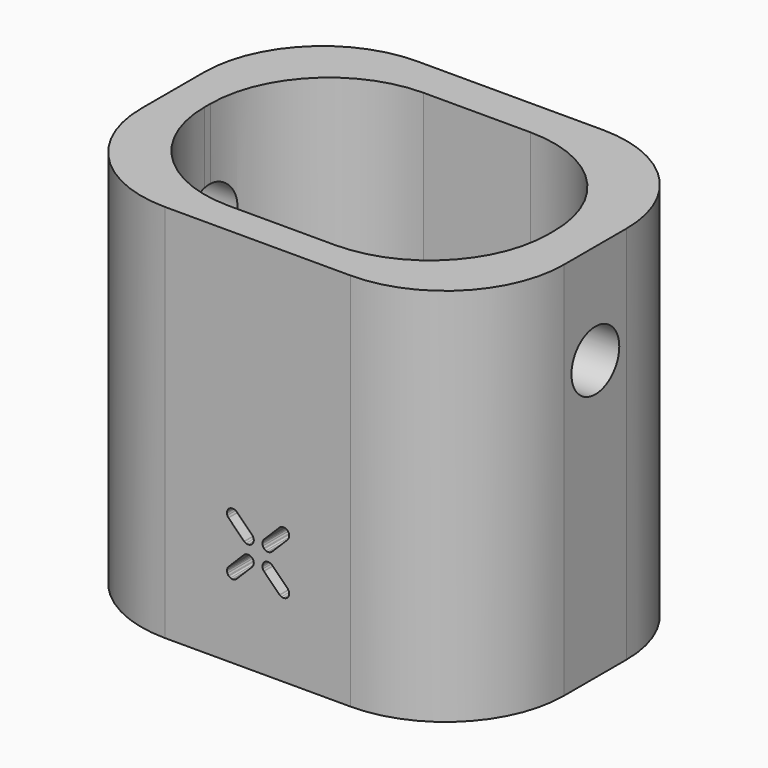
from build123d import *

# Parameters (mm, degrees)
F1_DEPTH = 32
F3_DEPTH = 32.001
F5_DEPTH = 26.591
F6_R     = 2.520252
F7_DEPTH = 35.641


with BuildPart() as f1:
    # F0 (on Top) → F1 (new body)
    with BuildSketch(Plane.XY):
        with BuildLine():
            Line((7.82, 13.295), (-7.82, 13.295))
            ThreePointArc((-7.82, 13.295), (-14.891068, 10.366068), (-17.82, 3.295))
            Line((-17.82, 3.295), (-17.82, -3.295))
            ThreePointArc((-17.82, -3.295), (-14.891068, -10.366068), (-7.82, -13.295))
            Line((-7.82, -13.295), (7.82, -13.295))
            ThreePointArc((7.82, -13.295), (14.891068, -10.366068), (17.82, -3.295))
            Line((17.82, -3.295), (17.82, 3.295))
            ThreePointArc((17.82, 3.295), (14.891068, 10.366068), (7.82, 13.295))
        make_face()
    extrude(amount=F1_DEPTH)

    # F2 (on face) → F3 (cut, through all)
    with BuildSketch(Plane.XY.offset(32)):
        with BuildLine():
            Line((4.312862, 10.047334), (-4.687138, 10.047334))
            ThreePointArc((-4.687138, 10.047334), (-11.758206, 7.118401), (-14.687138, 0.047334))
            Line((-14.687138, 0.047334), (-14.687138, -0.542666))
            ThreePointArc((-14.687138, -0.542666), (-11.758206, -7.613734), (-4.687138, -10.542666))
            Line((-4.687138, -10.542666), (4.312862, -10.542666))
            ThreePointArc((4.312862, -10.542666), (11.38393, -7.613734), (14.312862, -0.542666))
            Line((14.312862, -0.542666), (14.312862, 0.047334))
            ThreePointArc((14.312862, 0.047334), (11.38393, 7.118401), (4.312862, 10.047334))
        make_face()
    extrude(amount=-F3_DEPTH, mode=Mode.SUBTRACT)

    # F4 (on face) → F5 (cut, through all)
    with BuildSketch(Plane.XZ.offset(13.295)):
        Polygon((2.505232, 7.045882), (1.206363, 8.342979), (1.173141, 8.376214), (1.046602, 8.449046), (0.864801, 8.484373), (0.683013, 8.449046), (0.556399, 8.376214), (0.523227, 8.342979), (0.501149, 8.320964), (0.421829, 8.187527), (0.38664, 8.048499), (0.38664, 8.002152), (0.38664, 7.955407), (0.422502, 7.815021), (0.50161, 7.682743), (0.523227, 7.661537), (1.822096, 6.360989), (1.855331, 6.328088), (1.981794, 6.256005), (2.163658, 6.221146), (2.345459, 6.25668), (2.471985, 6.329575), (2.505232, 6.362745), (2.527658, 6.385242), (2.609805, 6.519005), (2.647024, 6.658578), (2.647024, 6.705058), (2.647024, 6.751132), (2.609805, 6.88915), (2.527658, 7.02298), align=None)
        Polygon((0.817658, 9.214603), (0.864004, 9.214603), (0.910476, 9.214603), (1.050039, 9.25115), (1.183887, 9.333509), (1.206363, 9.356408), (2.505232, 10.655252), (2.528132, 10.677753), (2.609606, 10.810717), (2.645343, 10.94967), (2.645343, 10.995955), (2.645343, 11.042152), (2.608996, 11.180782), (2.527658, 11.315489), (2.505232, 11.338388), (2.482258, 11.36135), (2.347625, 11.443708), (2.208984, 11.480205), (2.162774, 11.480205), (2.116564, 11.480205), (1.978146, 11.44453), (1.844522, 11.362981), (1.822096, 11.340019), (0.523227, 10.041287), (0.501149, 10.019272), (0.420945, 9.88652), (0.384871, 9.747093), (0.384871, 9.70061), (0.384871, 9.65379), (0.420945, 9.51313), (0.501149, 9.380192), (0.523227, 9.358151), (0.545728, 9.335252), (0.678692, 9.252034), align=None)
        Polygon((-1.136704, 8.376214), (-1.169876, 8.342979), (-2.466976, 7.045882), (-2.489067, 7.024264), (-2.569257, 6.89111), (-2.605332, 6.751604), (-2.605332, 6.705058), (-2.605332, 6.658241), (-2.569932, 6.517722), (-2.489472, 6.384363), (-2.466976, 6.362745), (-2.444074, 6.339843), (-2.310243, 6.257424), (-2.172291, 6.220808), (-2.126285, 6.220808), (-2.079807, 6.220808), (-1.940166, 6.257424), (-1.806807, 6.339843), (-1.783838, 6.362745), (-0.48674, 7.661537), (-0.46343, 7.684498), (-0.380885, 7.818259), (-0.344948, 7.956216), (-0.344948, 8.002152), (-0.344948, 8.048362), (-0.380885, 8.186854), (-0.46343, 8.320478), (-0.48674, 8.342979), (-0.519987, 8.376214), (-0.646513, 8.449046), (-0.828314, 8.484373), (-1.010178, 8.449046), align=None)
        Polygon((-0.484972, 10.041287), (-1.785595, 11.340019), (-1.81863, 11.373117), (-1.944827, 11.445128), (-2.12696, 11.480205), (-2.308758, 11.445128), (-2.434278, 11.373042), (-2.466976, 11.340019), (-2.489067, 11.317992), (-2.569257, 11.184505), (-2.605332, 11.044443), (-2.605332, 10.997698), (-2.605332, 10.95109), (-2.569257, 10.811115), (-2.489067, 10.6785), (-2.466976, 10.656871), (-1.16812, 9.358151), (-1.134948, 9.324979), (-1.008422, 9.252109), (-0.826621, 9.216708), (-0.644832, 9.252109), (-0.518219, 9.324917), (-0.484972, 9.358151), (-0.461686, 9.381125), (-0.379116, 9.51516), (-0.34318, 9.65425), (-0.34318, 9.70061), (-0.34318, 9.746957), (-0.379116, 9.885922), (-0.461686, 10.018861), align=None)
    extrude(amount=-F5_DEPTH, mode=Mode.SUBTRACT)

    # F6 (on face) → F7 (cut, through all)
    with BuildSketch(Plane.YZ.offset(17.82)):
        with Locations((0, 23.545459)):
            Circle(F6_R)
    extrude(amount=-F7_DEPTH, mode=Mode.SUBTRACT)


solid = f1.part
